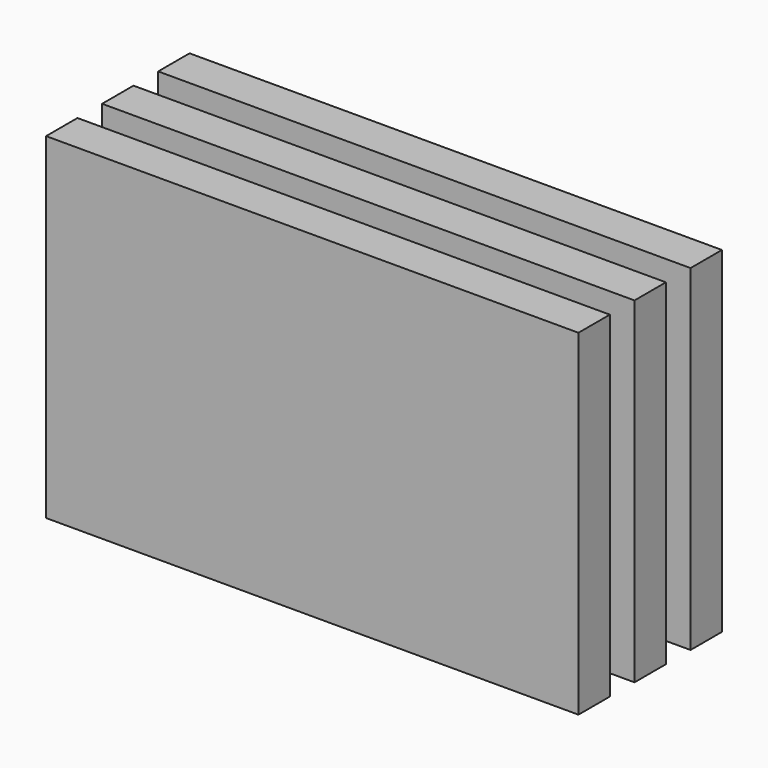
from build123d import *

# Parameters (mm, degrees)
BOX173_W     = 190
BOX173_H     = 14
BOX173_DEPTH = 120
BOX172_W     = 190
BOX172_H     = 14
BOX172_DEPTH = 120
BOX174_W     = 190
BOX174_H     = 14
BOX174_DEPTH = 120


with BuildPart() as obj1:
    # Box173 → Box173 (new body)
    with BuildSketch(Plane(origin=(-6, -188, 54), x_dir=(1, 0, 0), z_dir=(0, 0, 1))):
        with Locations((95, 7)):
            Rectangle(BOX173_W, BOX173_H)
    extrude(amount=BOX173_DEPTH)


with BuildPart() as obj2:
    # Box172 → Box172 (new body)
    with BuildSketch(Plane(origin=(-6, -163, 54), x_dir=(1, 0, 0), z_dir=(0, 0, 1))):
        with Locations((95, 7)):
            Rectangle(BOX172_W, BOX172_H)
    extrude(amount=BOX172_DEPTH)


with BuildPart() as obj3:
    # Box174 → Box174 (new body)
    with BuildSketch(Plane(origin=(-6, -213, 54), x_dir=(1, 0, 0), z_dir=(0, 0, 1))):
        with Locations((95, 7)):
            Rectangle(BOX174_W, BOX174_H)
    extrude(amount=BOX174_DEPTH)

    # Fusion059: union obj1, obj2
    add(obj1.part)
    add(obj2.part)


with BuildPart() as obj3_1:
    # Fusion059 placement: moved
    add(obj3.part.moved(Location((0, 7, -149.5))))


solid = obj3_1.part
